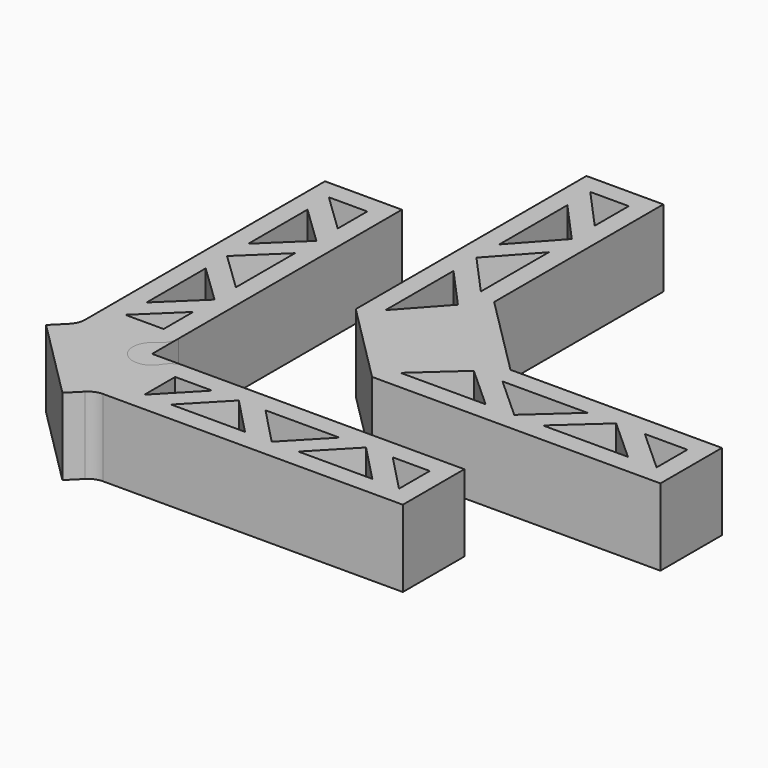
from build123d import *

# Parameters (mm, degrees)
F3_DEPTH = 20
F4_DEPTH = 20
F6_DEPTH = 20


with BuildPart() as f3:
    # F2 (on Top) → F3 (new body)
    with BuildSketch(Plane.XY):
        Polygon((40, 61.2132034356), (40, 116.2132034356), (20, 116.2132034356), (20, 41.2132034356), (41.2132034356, 20), (116.2132034356, 20), (116.2132034356, 40), (61.2132034356, 40), align=None)
    extrude(amount=F3_DEPTH)


with BuildPart() as f3b:
    # F2 (on Top) → F3, piece 2 (new body)
    with BuildSketch(Plane.XY):
        with BuildLine():
            Line((81.2132034356, 0), (0, 0))
            Line((0, 0), (0, 81.2132034356))
            Line((0, 81.2132034356), (-20, 81.2132034356))
            Line((-20, 81.2132034356), (-20, 3.2842712475))
            ThreePointArc((-20, 3.2842712475), (-20.3806023374, 1.3708540856), (-21.4644660941, -0.2512626585))
            Line((-21.4644660941, -0.2512626585), (-24.7487373415, -3.5355339059))
            Line((-24.7487373415, -3.5355339059), (-3.5355339059, -24.7487373415))
            Line((-3.5355339059, -24.7487373415), (-0.2512626585, -21.4644660941))
            ThreePointArc((-0.2512626585, -21.4644660941), (1.3708540856, -20.3806023374), (3.2842712475, -20))
            Line((3.2842712475, -20), (81.2132034356, -20))
            Line((81.2132034356, -20), (81.2132034356, 0))
        make_face()
    extrude(amount=F3_DEPTH)


with BuildPart() as f4:
    # F1 (on Top) → F4 (new body)
    with BuildSketch(Plane.XY):
        with BuildLine():
            ThreePointArc((-2.5, 4.3301270189), (-0.6698729811, 6.1602540378), (0, 8.6602540378))
            Line((0, 8.6602540378), (0, 81.2132034356))
            Line((0, 81.2132034356), (-20, 81.2132034356))
            Line((-20, 81.2132034356), (-20, 3.2842712475))
            ThreePointArc((-20, 3.2842712475), (-20.3806023374, 1.3708540856), (-21.4644660941, -0.2512626585))
            Line((-21.4644660941, -0.2512626585), (-24.7487373415, -3.5355339059))
            Line((-24.7487373415, -3.5355339059), (-3.5355339059, -24.7487373415))
            Line((-3.5355339059, -24.7487373415), (-0.2512626585, -21.4644660941))
            ThreePointArc((-0.2512626585, -21.4644660941), (1.3708540856, -20.3806023374), (3.2842712475, -20))
            Line((3.2842712475, -20), (81.2132034356, -20))
            Line((81.2132034356, -20), (81.2132034356, 0))
            Line((81.2132034356, 0), (8.6602540378, 0))
            ThreePointArc((8.6602540378, 0), (6.1602540378, -0.6698729811), (4.3301270189, -2.5))
            ThreePointArc((4.3301270189, -2.5), (-3.5355339059, -3.5355339059), (-2.5, 4.3301270189))
        make_face()
    extrude(amount=F4_DEPTH)


with BuildPart() as f6_tool:
    # F5 (on Top) → F6 (new body, symmetric)
    with BuildSketch(Plane.XY):
        Polygon((-15, 10), (-5, 10), (-5, 19.6164966863), align=None)
        Polygon((-15, 36.1697975452), (-15, 16.9368041726), (-5, 26.5533008589), align=None)
        Polygon((-5, 52.7230984041), (-15, 43.1066017178), (-5, 33.4901050315), align=None)
        Polygon((-15, 69.276399263), (-15, 50.0434058904), (-5, 59.6599025767), align=None)
        Polygon((-5, 76.2132034356), (-15, 76.2132034356), (-5, 66.5967067493), align=None)
        Polygon((52.7230984041, -5), (33.4901050315, -5), (43.1066017178, -15), align=None)
        Polygon((76.2132034356, -15), (76.2132034356, -5), (66.5967067493, -5), align=None)
        Polygon((36.1697975452, -15), (26.5533008589, -5), (16.9368041726, -15), align=None)
        Polygon((10, -5), (10, -15), (19.6164966863, -5), align=None)
        Polygon((59.6599025767, -5), (50.0434058904, -15), (69.276399263, -15), align=None)
        Polygon((25, 66.7410194222), (25, 44.6297554757), (35, 55.685387449), align=None)
        Polygon((35, 85.2502914178), (25, 74.1946594445), (35, 63.1390274713), align=None)
        Polygon((25, 103.7595634133), (25, 81.6482994668), (35, 92.7039314401), align=None)
        Polygon((35, 111.2132034356), (25, 111.2132034356), (35, 100.1575714624), align=None)
        Polygon((63.1390274713, 35), (74.1946594445, 25), (85.2502914178, 35), align=None)
        Polygon((92.7039314401, 35), (81.6482994668, 25), (103.7595634133, 25), align=None)
        Polygon((111.2132034356, 25), (111.2132034356, 35), (100.1575714624, 35), align=None)
        Polygon((44.6297554757, 25), (66.7410194222, 25), (55.685387449, 35), align=None)
    extrude(amount=F6_DEPTH, both=True)


with BuildPart() as f3_1:
    add(f3.part)

    # F6: cut by f6_tool
    add(f6_tool.part, mode=Mode.SUBTRACT)


with BuildPart() as f3b_1:
    add(f3b.part)

    # F6: cut by f6_tool
    add(f6_tool.part, mode=Mode.SUBTRACT)


with BuildPart() as f4_1:
    add(f4.part)

    # F6: cut by f6_tool
    add(f6_tool.part, mode=Mode.SUBTRACT)


solid = Compound([f3_1.part, f3b_1.part, f4_1.part])
